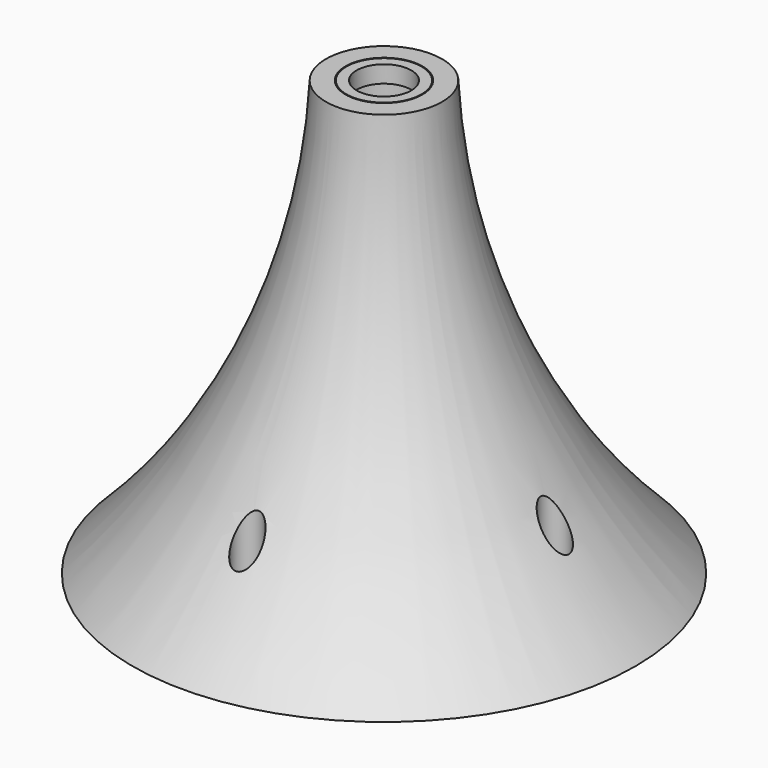
from build123d import *

# Parameters (mm, degrees)
F2_R      = 2.15
F3_DEPTH  = 10
F4_R      = 2.15
F5_DEPTH  = 127.001
F7_R      = 4.15
F8_DEPTH  = 19
F9_R      = 11
F9_R_2    = 8
F10_DEPTH = 5


with BuildPart() as f1:
    # F0 (on Front) → F1 (revolve)
    with BuildSketch(Plane.XZ):
        with BuildLine():
            Line((17, 127), (11.25, 127))
            Line((11.25, 127), (11.25, 114))
            Line((11.25, 114), (8, 114))
            Line((8, 114), (8, 88.086183))
            Line((8, 88.086183), (11.25, 83.444702))
            Line((11.25, 83.444702), (11.25, 76.444702))
            Line((11.25, 76.444702), (17.498727, 67.520595))
            Line((17.498727, 67.520595), (45.579363, 0))
            Line((45.579363, 0), (73.66, 0))
            ThreePointArc((73.66, 0), (33.370557, 58.164393), (17, 127))
        make_face()
    revolve(axis=Axis((0, 0, 63.5), (0, 0, 1)))

    # F2 (on face) → F3 (cut)
    with BuildSketch(Plane(origin=(0, 0, 0), x_dir=(1, 0, 0), z_dir=(0, 0, -1))):
        with Locations((50, 0)):
            Circle(F2_R)
        with Locations((0, 50)):
            Circle(F2_R)
        with Locations((-50, 0)):
            Circle(F2_R)
        with Locations((0, -50)):
            Circle(F2_R)
    extrude(amount=-F3_DEPTH, mode=Mode.SUBTRACT)

    # F4 (on face) → F5 (cut, through all)
    with BuildSketch(Plane(origin=(0, 0, 0), x_dir=(1, 0, 0), z_dir=(0, 0, -1))):
        with Locations((0, 50)):
            Circle(F4_R)
        with Locations((50, 0)):
            Circle(F4_R)
        with Locations((-50, 0)):
            Circle(F4_R)
        with Locations((0, -50)):
            Circle(F4_R)
    extrude(amount=-F5_DEPTH, mode=Mode.SUBTRACT)

    # F7 (on offset) → F8 (cut)
    with BuildSketch(Plane.XY.offset(37)):
        with Locations((0, 50)):
            Circle(F7_R)
        with Locations((50, 0)):
            Circle(F7_R)
        with Locations((0, -50)):
            Circle(F7_R)
        with Locations((-50, 0)):
            Circle(F7_R)
    extrude(amount=-F8_DEPTH, mode=Mode.SUBTRACT)


with BuildPart() as f10:
    # F9 (on face) → F10 (new body)
    with BuildSketch(Plane.XY.offset(127)):
        Circle(F9_R)
        Circle(F9_R_2, mode=Mode.SUBTRACT)
    extrude(amount=-F10_DEPTH)


solid = Compound([f1.part, f10.part])
